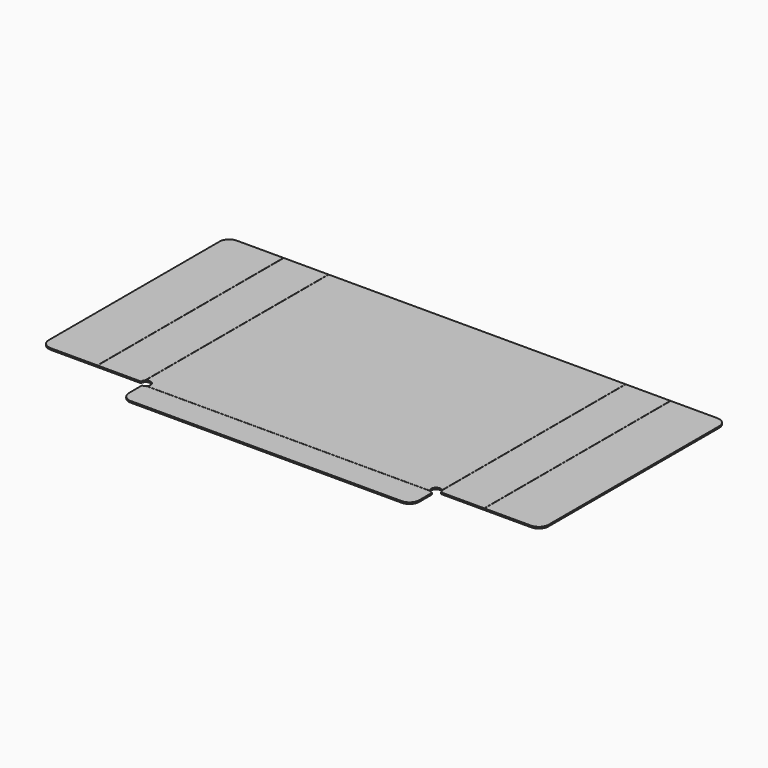
from build123d import *

# Parameters (mm, degrees)
F0_W     = 190.0428
F0_H     = 2.1717
F0_W_2   = 0.127
F0_H_2   = 152.4
F0_H_3   = 0.127
F1_DEPTH = 1.016
F2_W     = 0.127
F2_H     = 152.4
F2_W_2   = 190.0428
F2_H_2   = 0.127
F3_DEPTH = 0.508
F5_D     = 6.35


with BuildPart() as f1:
    # F0 (on Top) → F1 (new body)
    with BuildSketch(Plane.XY):
        Polygon((-97.1931, 0), (-95.0214, 0), (95.0214, 0), (97.1931, 0), (97.1931, 152.4), (95.0214, 152.4), (-95.0214, 152.4), (-97.1931, 152.4), align=None)
        with Locations((0, -1.08585)):
            Rectangle(F0_W, F0_H)
        with Locations((-97.2566, 76.2)):
            Rectangle(F0_W_2, F0_H_2)
        with Locations((0, -2.2352)):
            Rectangle(F0_W, F0_H_3)
        with Locations((97.2566, 76.2)):
            Rectangle(F0_W_2, F0_H_2)
        Polygon((-99.4918, 0), (-97.3201, 0), (-97.3201, 152.4), (-99.4918, 152.4), (-124.4346, 152.4), (-126.6063, 152.4), (-126.6063, 0), (-124.4346, 0), align=None)
        with Locations((0, -3.38455)):
            Rectangle(F0_W, F0_H)
        Polygon((97.3201, 152.4), (97.3201, 0), (99.4918, 0), (124.4346, 0), (126.6063, 0), (126.6063, 152.4), (124.4346, 152.4), (99.4918, 152.4), align=None)
        with BuildLine():
            Line((95.0214, -4.4704), (-95.0214, -4.4704))
            Line((-95.0214, -4.4704), (-95.0214, -13.7668))
            ThreePointArc((-95.0214, -13.7668), (-93.161528, -18.256928), (-88.6714, -20.1168))
            Line((-88.6714, -20.1168), (88.6714, -20.1168))
            ThreePointArc((88.6714, -20.1168), (93.161528, -18.256928), (95.0214, -13.7668))
            Line((95.0214, -13.7668), (95.0214, -4.4704))
        make_face()
        with Locations((-126.6698, 76.2)):
            Rectangle(F0_W_2, F0_H_2)
        with Locations((126.6698, 76.2)):
            Rectangle(F0_W_2, F0_H_2)
        with BuildLine():
            Line((-128.905, 0), (-126.7333, 0))
            Line((-126.7333, 0), (-126.7333, 152.4))
            Line((-126.7333, 152.4), (-128.905, 152.4))
            Line((-128.905, 152.4), (-157.2514, 152.4))
            ThreePointArc((-157.2514, 152.4), (-161.741528, 150.540128), (-163.6014, 146.05))
            Line((-163.6014, 146.05), (-163.6014, 6.35))
            ThreePointArc((-163.6014, 6.35), (-161.741528, 1.859872), (-157.2514, 0))
            Line((-157.2514, 0), (-128.905, 0))
        make_face()
        with BuildLine():
            Line((126.7333, 152.4), (126.7333, 0))
            Line((126.7333, 0), (128.905, 0))
            Line((128.905, 0), (157.2514, 0))
            ThreePointArc((157.2514, 0), (161.741528, 1.859872), (163.6014, 6.35))
            Line((163.6014, 6.35), (163.6014, 146.05))
            ThreePointArc((163.6014, 146.05), (161.741528, 150.540128), (157.2514, 152.4))
            Line((157.2514, 152.4), (128.905, 152.4))
            Line((128.905, 152.4), (126.7333, 152.4))
        make_face()
    extrude(amount=F1_DEPTH)

    # F2 (on face) → F3 (cut)
    with BuildSketch(Plane.XY.offset(1.016)):
        with Locations((-126.6698, 76.2)):
            Rectangle(F2_W, F2_H)
        with Locations((-97.2566, 76.2)):
            Rectangle(F2_W, F2_H)
        with Locations((97.2566, 76.2)):
            Rectangle(F2_W, F2_H)
        with Locations((126.6698, 76.2)):
            Rectangle(F2_W, F2_H)
        with Locations((0, -2.2352)):
            Rectangle(F2_W_2, F2_H_2)
    extrude(amount=-F3_DEPTH, mode=Mode.SUBTRACT)

    # F5 (through all)
    with Locations(Plane.XY.offset(1.016)):
        with Locations((95.0214, 0), (-95.0214, 0)):
            Hole(F5_D / 2)


solid = f1.part
